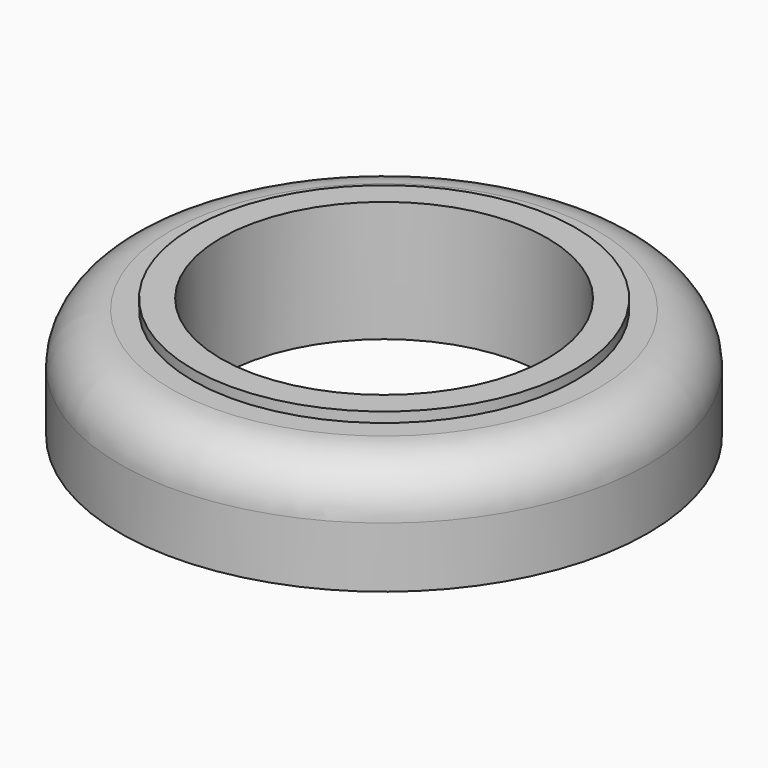
from build123d import *

# Parameters (mm, degrees)
SKETCH_R      = 26.2
SKETCH_R_2    = 16.2
PAD_DEPTH     = 5.5
SKETCH001_R   = 19
SKETCH001_R_2 = 16.2
PAD001_DEPTH  = 1
FILLET_R      = 5


with BuildPart() as part:
    # Sketch → Pad (new body, symmetric)
    with BuildSketch(Plane.XY):
        Circle(SKETCH_R)
        Circle(SKETCH_R_2, mode=Mode.SUBTRACT)
    extrude(amount=PAD_DEPTH, both=True)

    # Sketch001 → Pad001 (new body)
    with BuildSketch(Plane.XY.offset(5.5)):
        Circle(SKETCH001_R)
        Circle(SKETCH001_R_2, mode=Mode.SUBTRACT)
    extrude(amount=PAD001_DEPTH)

    # Fillet
    fillet_edges = [part.edges().sort_by_distance(p)[0] for p in [
        (-26.2, 0, 5.5),
    ]]
    fillet(fillet_edges, radius=FILLET_R)


solid = part.part
